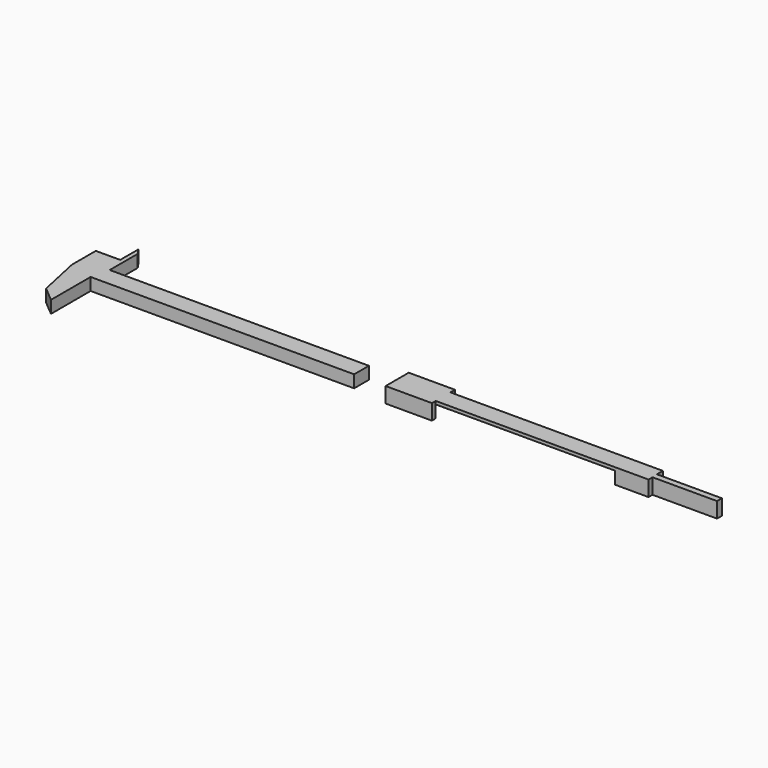
from build123d import *

# Parameters (mm, degrees)
F1_DEPTH = 5.08
F0_W     = 19.024082
F0_H     = 2.328148
F0_H_2   = 1.951458
F2_DEPTH = 6.35


with BuildPart() as f1:
    # F0 (on Top) → F1 (new body)
    with BuildSketch(Plane.XY):
        Polygon((-22.934459, 18.097935), (-41.958541, 18.097935), (-41.958541, 10.503267), (-22.934459, 10.503267), (50.738852, 10.503267), (50.738852, 18.097935), align=None)
        Polygon((-41.958541, 18.097935), (-55.748105, 18.097935), (-55.748105, 32.479331), (-57.525583, 35.064753), (-57.525583, 25.692604), (-67.544088, 25.692604), (-67.544088, 13.411863), (-63.665956, -4.686072), (-57.525583, -9.856911), (-57.525583, 10.503267), (-41.958541, 10.503267), align=None)
    extrude(amount=F1_DEPTH)


with BuildPart() as f2:
    # F0 (on Top) → F2 (new body)
    with BuildSketch(Plane.XY):
        with Locations((-32.4465, 19.262009)):
            Rectangle(F0_W, F0_H)
        Polygon((-22.934459, 18.097935), (-41.958541, 18.097935), (-41.958541, 10.503267), (-22.934459, 10.503267), (50.738852, 10.503267), (50.738852, 18.097935), align=None)
        with Locations((-32.4465, 9.527538)):
            Rectangle(F0_W, F0_H_2)
        Polygon((64.307295, 18.097935), (50.738852, 18.097935), (50.738852, 10.503267), (64.499453, 10.503267), (64.499453, 12.547422), (91.017872, 12.547422), (91.017872, 15.045535), (64.307295, 15.045535), align=None)
    extrude(amount=F2_DEPTH)

    # F3: cut F1
    add(f1.part, mode=Mode.SUBTRACT)


with BuildPart() as f2_1:
    # F4: moved
    add(f2.part.moved(Location((107.188, 0, 0))))


solid = Compound([f1.part, f2_1.part])
